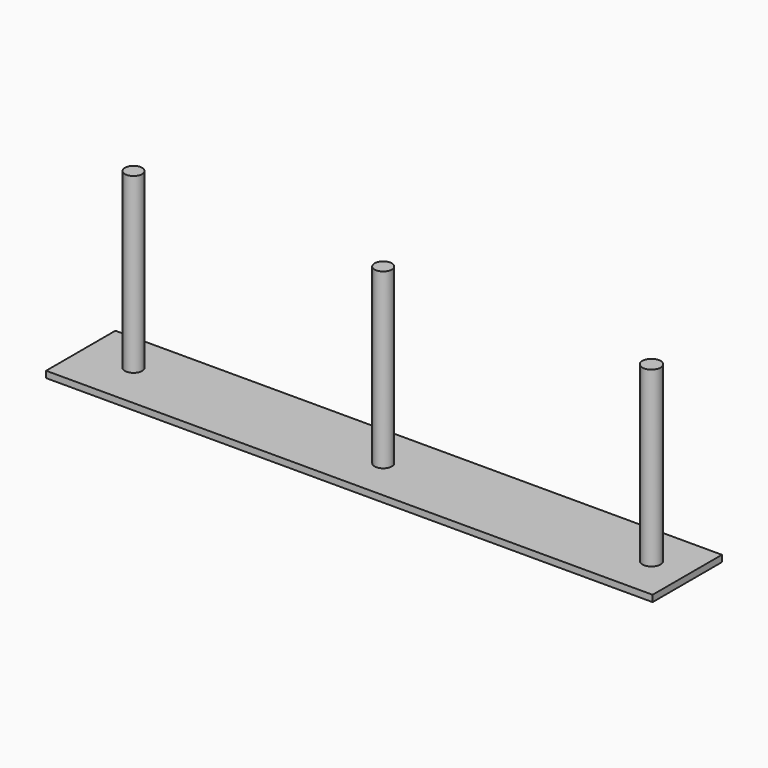
from build123d import *

# Parameters (mm, degrees)
F0_W     = 2800
F0_H     = 400
F1_DEPTH = 30
F2_R     = 39.745316
F2_R_2   = 39.745402
F2_R_3   = 42.249932
F3_DEPTH = 800


with BuildPart() as f1:
    # F0 (on Top) → F1 (new body)
    with BuildSketch(Plane.XY):
        with Locations((-1348.30073, 174.098142)):
            Rectangle(F0_W, F0_H)
    extrude(amount=F1_DEPTH)

    # F2 (on face) → F3 (join)
    with BuildSketch(Plane.XY.offset(30)):
        with Locations((-2516.492128, 189.01813)):
            Circle(F2_R)
        with Locations((-1347.977877, 169.145435)):
            Circle(F2_R_2)
        with Locations((-115.870953, 177.094489)):
            Circle(F2_R_3)
    extrude(amount=F3_DEPTH)


solid = f1.part
